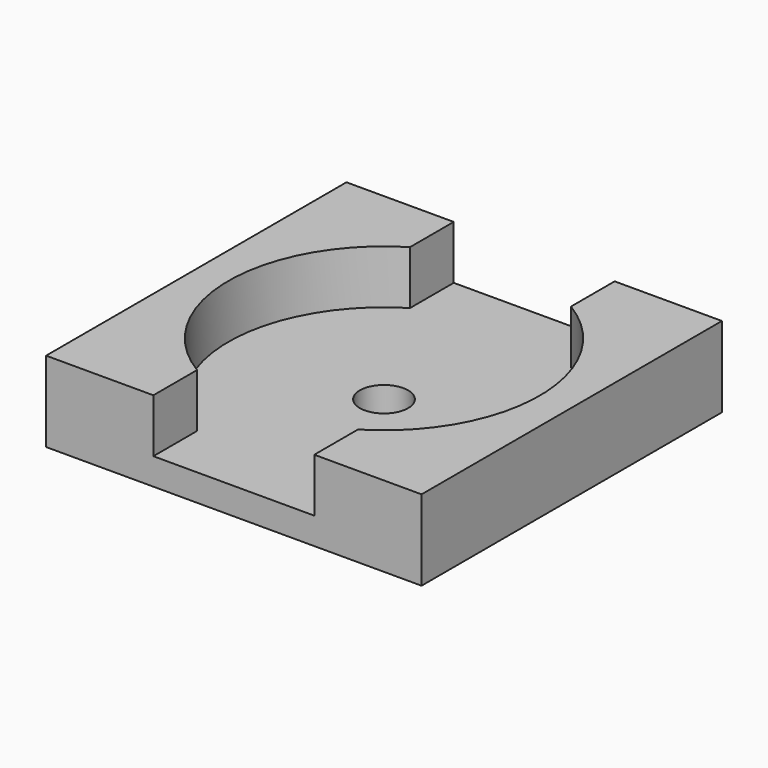
from build123d import *

# Parameters (mm, degrees)
SKETCH009_W     = 14
SKETCH009_H     = 14
PAD003_DEPTH    = 3
POCKET006_DEPTH = 2
SKETCH011_R     = 0.9
POCKET007_DEPTH = 1.001


with BuildPart() as part:
    # Sketch009 → Pad003 (new body)
    with BuildSketch(Plane.XY):
        Rectangle(SKETCH009_W, SKETCH009_H)
    extrude(amount=PAD003_DEPTH)

    # Sketch010 → Pocket006 (cut)
    with BuildSketch(Plane.XY.offset(3)):
        with BuildLine():
            Line((-3, 7), (-3, 4.963869))
            ThreePointArc((-3, 4.963869), (-5.8, 0), (-3, -4.963869))
            Line((-3, -7), (-3, -4.963869))
            Line((3, -7), (-3, -7))
            Line((3, -4.963869), (3, -7))
            ThreePointArc((3, -4.963869), (5.8, 0), (3, 4.963869))
            Line((3, 7), (3, 4.963869))
            Line((-3, 7), (3, 7))
        make_face()
    extrude(amount=-POCKET006_DEPTH, mode=Mode.SUBTRACT)

    # Sketch011 → Pocket007 (cut, through all)
    with BuildSketch(Plane.XY.offset(1)):
        Circle(SKETCH011_R)
    extrude(amount=-POCKET007_DEPTH, mode=Mode.SUBTRACT)


solid = part.part
